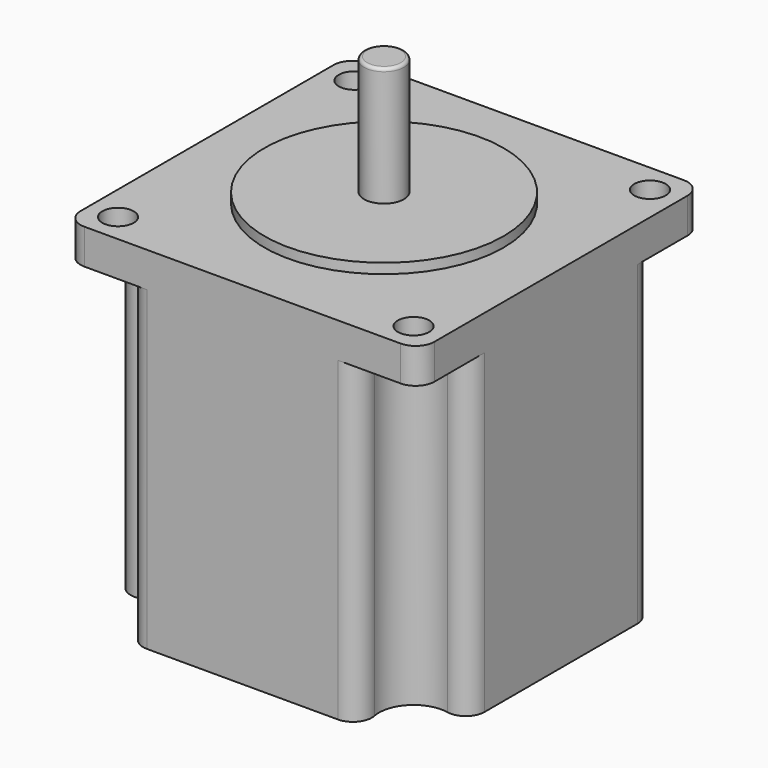
from build123d import *

# Parameters (mm, degrees)
SKETCH003_R  = 5.5
PAD001_DEPTH = 51.4
PAD_DEPTH    = 56
SKETCH002_R  = 2.5
POCKET_DEPTH = 6
FILLET_R     = 3
SKETCH004_R  = 19.05
PAD002_DEPTH = 1.6
SKETCH005_R  = 3.175
PAD003_DEPTH = 19
FILLET001_R  = 0.5


with BuildPart() as pad001:
    # Sketch003 → Pad001 (new body)
    with BuildSketch(Plane.XY.offset(-1)):
        with Locations((-23.55, 23.55)):
            Circle(SKETCH003_R)
        with Locations((-23.55, -23.55)):
            Circle(SKETCH003_R)
        with Locations((23.55, 23.55)):
            Circle(SKETCH003_R)
        with Locations((23.55, -23.55)):
            Circle(SKETCH003_R)
    extrude(amount=PAD001_DEPTH)


with BuildPart() as fillet001:
    # Sketch → Pad (new body)
    with BuildSketch(Plane.XY):
        with BuildLine():
            Line((-25.2, 28.2), (25.2, 28.2))
            ThreePointArc((28.2, 25.2), (27.32132, 27.32132), (25.2, 28.2))
            Line((28.2, 25.2), (28.2, -25.2))
            ThreePointArc((25.2, -28.2), (27.32132, -27.32132), (28.2, -25.2))
            Line((25.2, -28.2), (-25.2, -28.2))
            ThreePointArc((-28.2, -25.2), (-27.32132, -27.32132), (-25.2, -28.2))
            Line((-28.2, -25.2), (-28.2, 25.2))
            ThreePointArc((-25.2, 28.2), (-27.32132, 27.32132), (-28.2, 25.2))
        make_face()
    extrude(amount=PAD_DEPTH)

    # Sketch002 → Pocket (cut)
    with BuildSketch(Plane.XY.offset(56)):
        with Locations((-23.55, 23.55)):
            Circle(SKETCH002_R)
        with Locations((-23.55, -23.55)):
            Circle(SKETCH002_R)
        with Locations((23.55, 23.55)):
            Circle(SKETCH002_R)
        with Locations((23.55, -23.55)):
            Circle(SKETCH002_R)
    extrude(amount=-POCKET_DEPTH, mode=Mode.SUBTRACT)

    # Cut: cut Pad001
    add(pad001.part, mode=Mode.SUBTRACT)

    # Fillet
    fillet_edges = [fillet001.edges().sort_by_distance(p)[0] for p in [
        (-20.612739, -28.2, 25.2),
        (-28.2, -20.612739, 25.2),
        (-28.2, 20.612739, 25.2),
        (-20.612739, 28.2, 25.2),
        (20.612739, 28.2, 25.2),
        (28.2, 20.612739, 25.2),
        (28.2, -20.612739, 25.2),
        (20.612739, -28.2, 25.2),
    ]]
    fillet(fillet_edges, radius=FILLET_R)

    # Sketch004 → Pad002 (new body)
    with BuildSketch(Plane.XY.offset(56)):
        with Locations((0.021046, -0.026368)):
            Circle(SKETCH004_R)
    extrude(amount=PAD002_DEPTH)

    # Sketch005 → Pad003 (new body)
    with BuildSketch(Plane.XY.offset(57.6)):
        with Locations((-0.017815, 0.022992)):
            Circle(SKETCH005_R)
    extrude(amount=PAD003_DEPTH)

    # Fillet001
    fillet001_edges = [fillet001.edges().sort_by_distance(p)[0] for p in [
        (-3.192815, 0.022992, 76.6),
    ]]
    fillet(fillet001_edges, radius=FILLET001_R)


solid = fillet001.part
